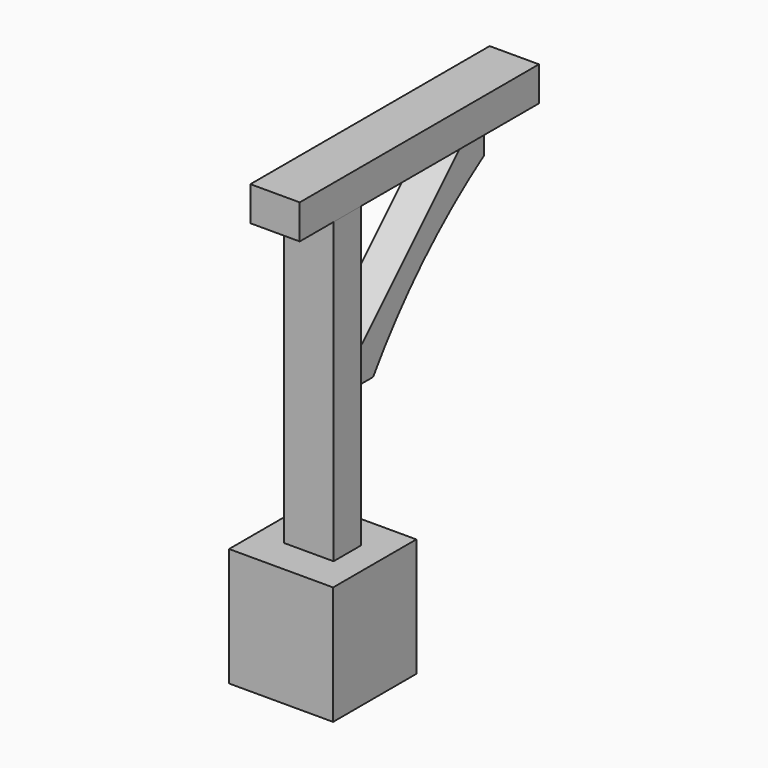
from build123d import *

# Parameters (mm, degrees)
F1_W          = 267.8742408752
F1_H          = 267.8742408752
F2_DEPTH      = 304.8
F3_DEPTH      = 63.5
F4_DEPTH      = 63.5
F4_DEPTH_BACK = 63.5
F5_DEPTH      = 44.45


with BuildPart() as f2:
    # F1 (on Top) → F2 (new body, through all)
    with BuildSketch(Plane.XY):
        Rectangle(F1_W, F1_H)
    extrude(amount=F2_DEPTH)


with BuildPart() as f3:
    # F0 (on Right) → F3 (new body, symmetric)
    with BuildSketch(Plane.YZ):
        Polygon((-44.45, 1073.8629251003), (-44.45, 304.8), (44.45, 304.8), (44.45, 654.7629251003), (44.45, 718.2629251003), (44.45, 1073.8629251003), align=None)
    extrude(amount=F3_DEPTH, both=True)


with BuildPart() as f4:
    # F0 (on Right) → F4 (new body, two sides)
    with BuildSketch(Plane.YZ) as f4_sk:
        Polygon((-153.2636582851, 1073.8629251003), (-44.45, 1073.8629251003), (44.45, 1073.8629251003), (400.05, 1073.8629251003), (463.55, 1073.8629251003), (616.5617704391, 1073.8629251003), (616.5617704391, 1162.4975204468), (-153.2636582851, 1162.4975204468), align=None)
    extrude(amount=F4_DEPTH)
    extrude(f4_sk.sketch, amount=-F4_DEPTH_BACK)


with BuildPart() as f5:
    # F0 (on Right) → F5 (new body, symmetric)
    with BuildSketch(Plane.YZ):
        with BuildLine():
            Line((44.45, 718.2629251003), (44.45, 654.7629251003))
            Line((44.45, 654.7629251003), (106.673585695, 654.7629251003))
            ThreePointArc((106.673585695, 654.7629251003), (267.1512806053, 851.161644495), (463.55, 1011.6393394054))
            Line((463.55, 1011.6393394054), (463.55, 1073.8629251003))
            Line((463.55, 1073.8629251003), (400.05, 1073.8629251003))
            Line((400.05, 1073.8629251003), (44.45, 718.2629251003))
        make_face()
    extrude(amount=F5_DEPTH, both=True)


solid = Compound([f2.part, f3.part, f4.part, f5.part])
